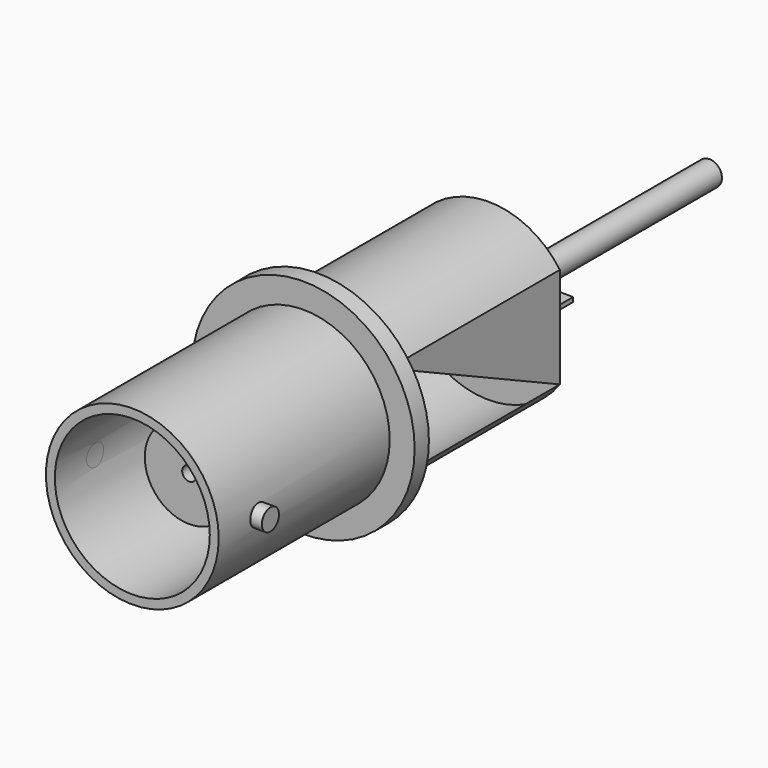
from build123d import *

# Parameters (mm, degrees)
F0_R      = 4.85
F0_R_2    = 4.35
F1_DEPTH  = 12
F2_R      = 0.6
F3_DEPTH  = 5.5
F4_R      = 4.35
F5_DEPTH  = 25
F6_R      = 2.5
F7_DEPTH  = 8
F8_R      = 0.4
F9_DEPTH  = 25
F10_R     = 6.25
F11_DEPTH = 1
F12_R     = 4.9
F13_DEPTH = 12
F14_R     = 0.7
F15_DEPTH = 15.5
F16_W     = 1.5
F16_H     = 0.25
F17_DEPTH = 5
F18_W     = 3.95316
F18_H     = 14.420373
F19_DEPTH = 12.5


with BuildPart() as f1:
    # F0 (on Front) → F1 (new body)
    with BuildSketch(Plane.XZ):
        Circle(F0_R)
        Circle(F0_R_2, mode=Mode.SUBTRACT)
    extrude(amount=F1_DEPTH)

    # F2 (on Right) → F3 (join, symmetric)
    with BuildSketch(Plane.YZ):
        with Locations((-9.182566, 0)):
            Circle(F2_R)
    extrude(amount=F3_DEPTH, both=True)

    # F4 (on Front) → F5 (cut)
    with BuildSketch(Plane.XZ):
        Circle(F4_R)
    extrude(amount=F5_DEPTH, mode=Mode.SUBTRACT)


with BuildPart() as f7:
    # F6 (on Front) → F7 (new body)
    with BuildSketch(Plane.XZ):
        Circle(F6_R)
    extrude(amount=F7_DEPTH)

    # F8 (on face) → F9 (cut)
    with BuildSketch(Plane.XZ.offset(8)):
        Circle(F8_R)
    extrude(amount=-F9_DEPTH, mode=Mode.SUBTRACT)


with BuildPart() as f11:
    # F10 (on Front) → F11 (new body)
    with BuildSketch(Plane.XZ):
        Circle(F10_R)
    extrude(amount=-F11_DEPTH)

    # F12 (on face) → F13 (join)
    with BuildSketch(Plane(origin=(0, 1, 0), x_dir=(-1, 0, 0), z_dir=(0, 1, 0))):
        Circle(F12_R)
    extrude(amount=F13_DEPTH)

    # F14 (on face) → F15 (join)
    with BuildSketch(Plane(origin=(0, 13, 0), x_dir=(-1, 0, 0), z_dir=(0, 1, 0))):
        Circle(F14_R)
    extrude(amount=F15_DEPTH)

    # F16 (on face) → F17 (join)
    with BuildSketch(Plane(origin=(0, 13, 0), x_dir=(-1, 0, 0), z_dir=(0, 1, 0))):
        with Locations((0, -1.725)):
            Rectangle(F16_W, F16_H)
    extrude(amount=F17_DEPTH)

    # F18 (on Top) → F19 (cut, symmetric)
    with BuildSketch(Plane.XY):
        with Locations((5.97658, 8.210186)):
            Rectangle(F18_W, F18_H)
    extrude(amount=F19_DEPTH, both=True, mode=Mode.SUBTRACT)


solid = Compound([f1.part, f7.part, f11.part])
